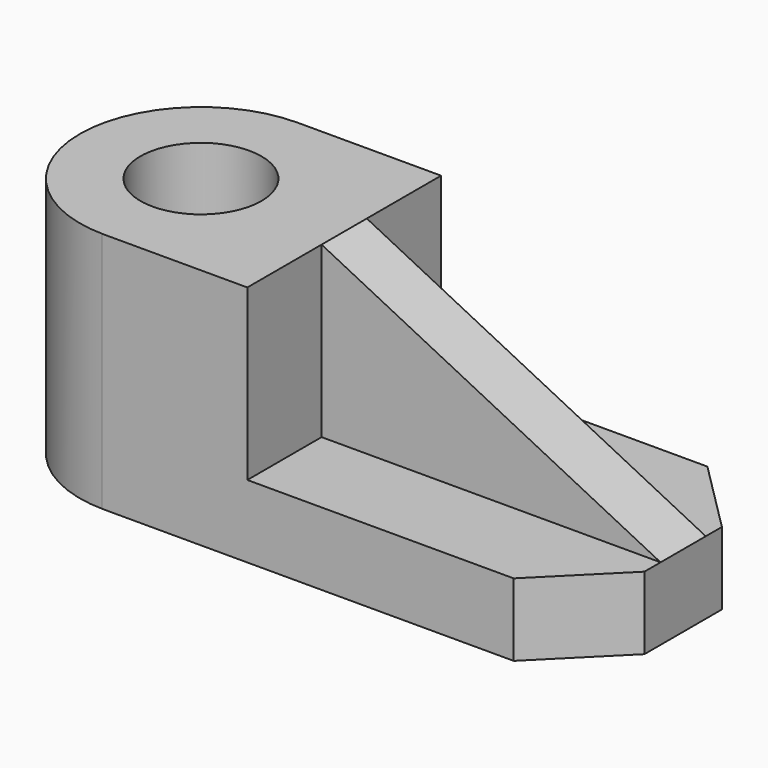
from build123d import *

# Parameters (mm, degrees)
F1_DEPTH = 762
F3_DEPTH = 762.001
F4_DEPTH = 533.4
F6_DEPTH = 469.901
F8_DEPTH = 762
F7_R     = 190.5
F9_DEPTH = 762.0010001


with BuildPart() as f1:
    # F0 (on Front) → F1 (new body)
    with BuildSketch(Plane.XZ):
        with BuildLine():
            ThreePointArc((0, 6.35), (1.8598719395, 1.8598719395), (6.35, 0))
            Line((6.35, 0), (1524, 0))
            Line((1524, 0), (1524, 762))
            Line((1524, 762), (6.35, 762))
            ThreePointArc((6.35, 762), (1.8598719395, 760.1401280605), (0, 755.65))
            Line((0, 755.65), (0, 6.35))
        make_face()
    extrude(amount=F1_DEPTH)

    # F2 (on face) → F3 (cut, through all)
    with BuildSketch(Plane.XY.offset(762)):
        Polygon((1524, -228.6), (1524, 0), (1295.4, 0), align=None)
        Polygon((1524, -762), (1524, -533.4), (1295.4, -762), align=None)
    extrude(amount=-F3_DEPTH, mode=Mode.SUBTRACT)

    # F2 (on face) → F4 (cut)
    with BuildSketch(Plane.XY.offset(762)):
        Polygon((1524, -292.1), (1524, -228.6), (1295.4, 0), (457.2, 0), (457.2, -292.1), align=None)
        Polygon((1524, -533.4), (1524, -469.9), (457.2, -469.9), (457.2, -762), (1295.4, -762), align=None)
    extrude(amount=-F4_DEPTH, mode=Mode.SUBTRACT)

    # F5 (on face) → F6 (cut, through all)
    with BuildSketch(Plane.XZ.offset(469.9)):
        Polygon((1524, 762), (457.2, 762), (1524, 228.6), align=None)
    extrude(amount=-F6_DEPTH, mode=Mode.SUBTRACT)

    # F7 (on face) → F8 (join)
    with BuildSketch(Plane.XY.offset(762)):
        with BuildLine():
            Line((6.35, -190.5), (6.35, 0))
            ThreePointArc((6.35, 0), (-374.65, -381), (6.35, -762))
            Line((6.35, -762), (6.35, -571.5))
            ThreePointArc((6.35, -571.5), (-184.15, -381), (6.35, -190.5))
        make_face()
    extrude(amount=-F8_DEPTH)

    # F7 (on face) → F9 (cut, through all)
    with BuildSketch(Plane.XY.offset(762)):
        with Locations((6.35, -381)):
            Circle(F7_R)
    extrude(amount=-F9_DEPTH, mode=Mode.SUBTRACT)


solid = f1.part
